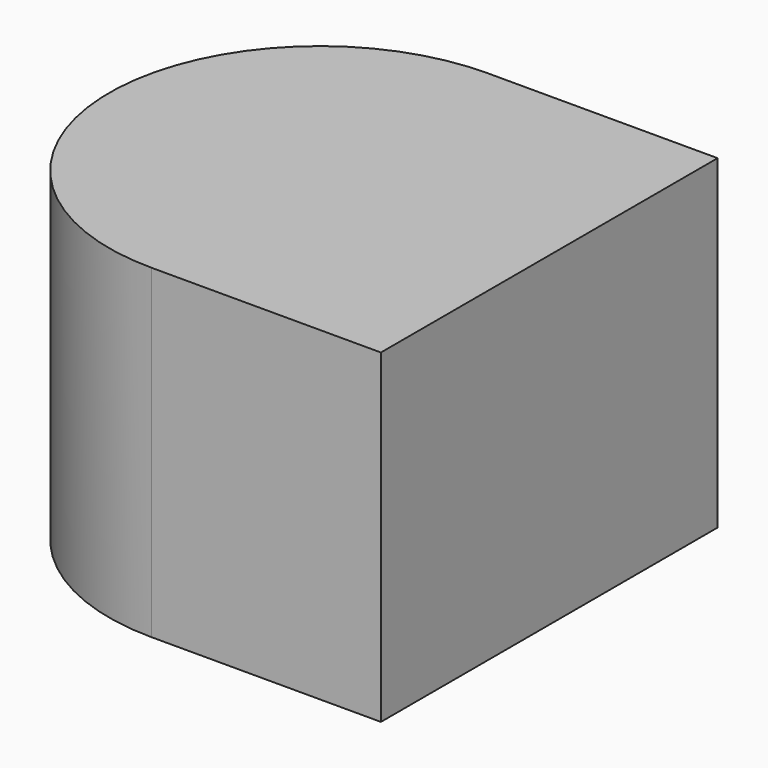
from build123d import *

# Parameters (mm, degrees)
F1_DEPTH = 8.5
F2_R     = 2.5
F3_DEPTH = 6.4


with BuildPart() as f1:
    # F0 (on Top) → F1 (new body)
    with BuildSketch(Plane.XY):
        with BuildLine():
            ThreePointArc((0, 5.5), (3.889087, 3.889087), (5.5, 0))
            ThreePointArc((5.5, 0), (3.889087, -3.889087), (0, -5.5))
            Line((0, -5.5), (6, -5.5))
            Line((6, -5.5), (6, 5.5))
            Line((6, 5.5), (0, 5.5))
        make_face()
        with BuildLine():
            ThreePointArc((0, -5.5), (3.889087, -3.889087), (5.5, 0))
            ThreePointArc((5.5, 0), (3.889087, 3.889087), (0, 5.5))
            ThreePointArc((0, 5.5), (-5.5, 0), (0, -5.5))
        make_face()
    extrude(amount=F1_DEPTH)

    # F2 (on Top) → F3 (cut)
    with BuildSketch(Plane.XY):
        Circle(F2_R)
    extrude(amount=F3_DEPTH, mode=Mode.SUBTRACT)


solid = f1.part
